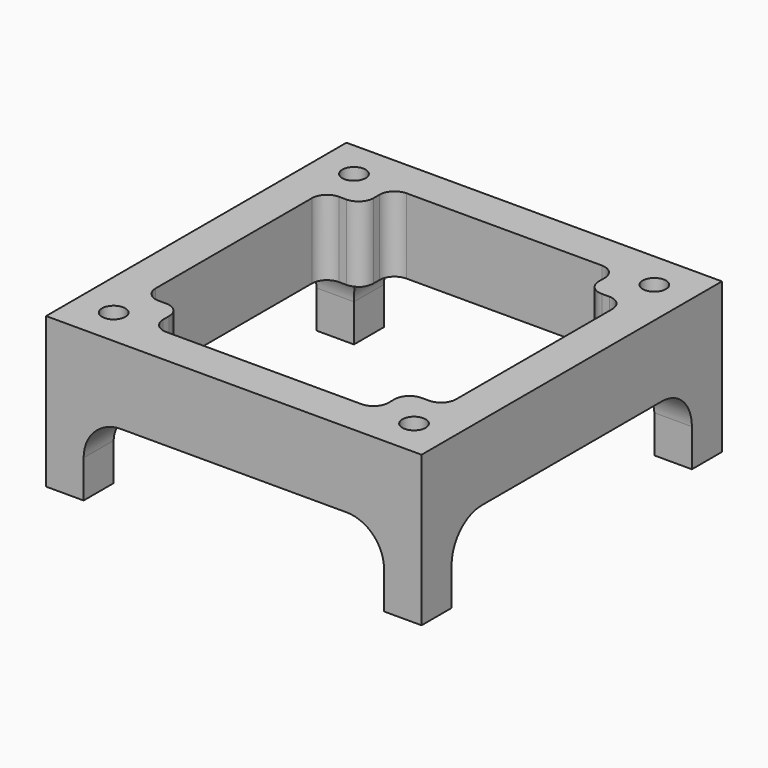
from build123d import *

# Parameters (mm, degrees)
SKETCH016_W             = 50
SKETCH016_H             = 50
PAD003_DEPTH            = 20
POCKET014_DEPTH         = 20.001
POCKET015_DEPTH         = 50.001
POCKET016_DEPTH         = 50.001
SKETCH020_R             = 1.55
POCKET017_DEPTH         = 5
SKETCH021_R             = 1.55
POCKET018_DEPTH         = 3
BODY004_PLACEMENT_ANGLE = 180


with BuildPart() as part:
    # Sketch016 → Pad003 (new body)
    with BuildSketch(Plane.XY):
        Rectangle(SKETCH016_W, SKETCH016_H)
    extrude(amount=PAD003_DEPTH)

    # Sketch017 (on Face6 of Pad003) → Pocket014 (cut, through all)
    with BuildSketch(Plane.XY.offset(20)):
        with BuildLine():
            Line((-18, 15), (-17, 15))
            ThreePointArc((-17, 15), (-15.585786, 15.585786), (-15, 17))
            Line((-15, 17), (-15, 18))
            ThreePointArc((-13, 20), (-14.414214, 19.414214), (-15, 18))
            Line((-13, 20), (13, 20))
            ThreePointArc((15, 18), (14.414214, 19.414214), (13, 20))
            Line((15, 18), (15, 17))
            ThreePointArc((15, 17), (15.585786, 15.585786), (17, 15))
            Line((17, 15), (18, 15))
            ThreePointArc((20, 13), (19.414214, 14.414214), (18, 15))
            Line((20, 13), (20, -13))
            ThreePointArc((18, -15), (19.414214, -14.414214), (20, -13))
            Line((18, -15), (17, -15))
            ThreePointArc((17, -15), (15.585786, -15.585786), (15, -17))
            Line((15, -17), (15, -18))
            ThreePointArc((13, -20), (14.414214, -19.414214), (15, -18))
            Line((13, -20), (-13, -20))
            ThreePointArc((-15, -18), (-14.414214, -19.414214), (-13, -20))
            Line((-15, -18), (-15, -17))
            ThreePointArc((-15, -17), (-15.585786, -15.585786), (-17, -15))
            Line((-17, -15), (-18, -15))
            ThreePointArc((-20, -13), (-19.414214, -14.414214), (-18, -15))
            Line((-20, -13), (-20, 13))
            ThreePointArc((-18, 15), (-19.414214, 14.414214), (-20, 13))
        make_face()
    extrude(amount=-POCKET014_DEPTH, mode=Mode.SUBTRACT)

    # Sketch018 (on Face3 of Pocket014) → Pocket015 (cut, through all)
    with BuildSketch(Plane.YZ.offset(25)):
        with BuildLine():
            Line((-15, 10), (15, 10))
            ThreePointArc((20, 5), (18.535534, 8.535534), (15, 10))
            Line((20, 5), (20, 0))
            Line((20, 0), (-20, 0))
            Line((-20, 0), (-20, 5))
            ThreePointArc((-15, 10), (-18.535534, 8.535534), (-20, 5))
        make_face()
    extrude(amount=-POCKET015_DEPTH, mode=Mode.SUBTRACT)

    # Sketch019 (on Face6 of Pocket014) → Pocket016 (cut, through all)
    with BuildSketch(Plane.XZ.offset(25)):
        with BuildLine():
            Line((-15, 10), (15, 10))
            ThreePointArc((20, 5), (18.535534, 8.535534), (15, 10))
            Line((20, 5), (20, 0))
            Line((20, 0), (-20, 0))
            Line((-20, 0), (-20, 5))
            ThreePointArc((-15, 10), (-18.535534, 8.535534), (-20, 5))
        make_face()
    extrude(amount=-POCKET016_DEPTH, mode=Mode.SUBTRACT)

    # Sketch020 → Pocket017 (cut)
    with BuildSketch(Plane.XY.offset(20)):
        with Locations((-20, 20)):
            Circle(SKETCH020_R)
        with Locations((20, 20)):
            Circle(SKETCH020_R)
        with Locations((20, -20)):
            Circle(SKETCH020_R)
        with Locations((-20, -20)):
            Circle(SKETCH020_R)
    extrude(amount=-POCKET017_DEPTH, mode=Mode.SUBTRACT)

    # Sketch021 (on Face27 of Pocket017) → Pocket018 (cut)
    with BuildSketch(Plane.XZ.offset(25)):
        with Locations((-20, 14)):
            Circle(SKETCH021_R)
        with Locations((20, 14)):
            Circle(SKETCH021_R)
    extrude(amount=-POCKET018_DEPTH, mode=Mode.SUBTRACT)


with BuildPart() as part_1:
    # Body004 placement: moved
    add(part.part.moved(Location((85, 145, 0))).rotate(Axis((85, 145, 0), (0, 0, 1)), BODY004_PLACEMENT_ANGLE))


solid = part_1.part
